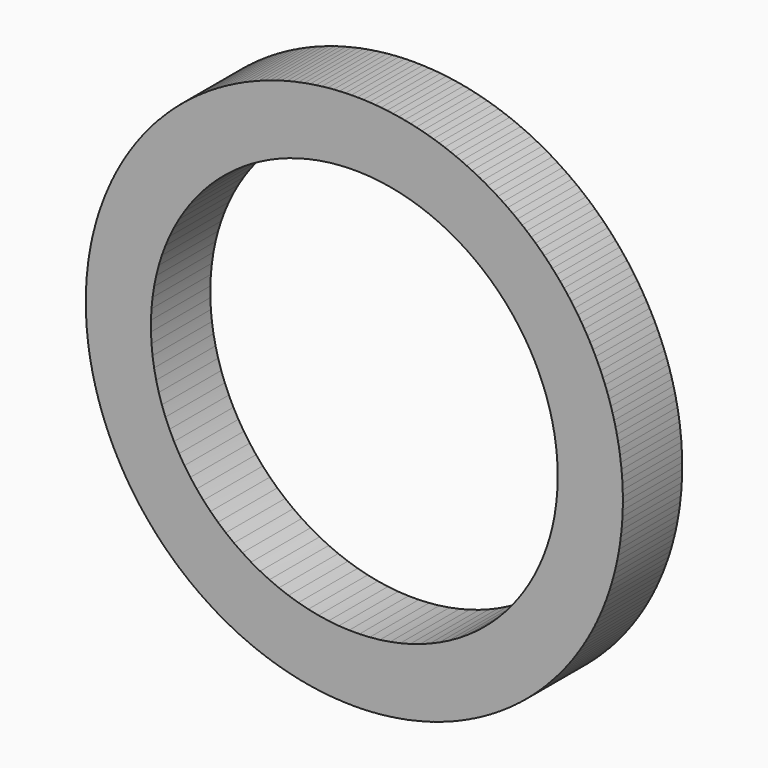
from build123d import *

# Parameters (mm, degrees)
F0_R     = 9.191161
F0_R_2   = 6.967938
F1_DEPTH = 2.54
F2_COUNT = 4


with BuildPart() as f1:
    # F0 (on Front) → F1 (new body)
    with BuildSketch(Plane.XZ):
        with Locations((1.638431, 0)):
            Circle(F0_R)
        with Locations((1.638431, 0)):
            Circle(F0_R_2, mode=Mode.SUBTRACT)
    extrude(amount=F1_DEPTH)


with BuildPart() as f2_1:
    # F2: instance of F1
    add(f1.part.rotate(Axis((1.638431, -2.54, 0), (0, -1, 0)), 1 * 360 / F2_COUNT))


with BuildPart() as f2_2:
    # F2: instance of F1
    add(f1.part.rotate(Axis((1.638431, -2.54, 0), (0, -1, 0)), 2 * 360 / F2_COUNT))


with BuildPart() as f2_3:
    # F2: instance of F1
    add(f1.part.rotate(Axis((1.638431, -2.54, 0), (0, -1, 0)), 3 * 360 / F2_COUNT))


solid = Compound([f1.part, f2_1.part, f2_2.part, f2_3.part])
